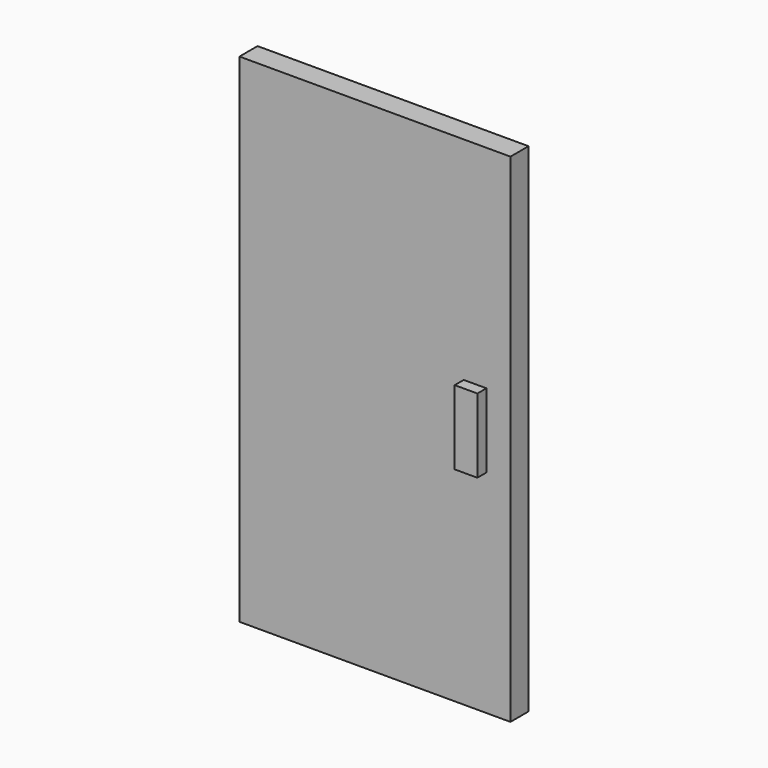
from build123d import *

# Parameters (mm, degrees)
F0_W     = 60.833
F0_H     = 111.7092
F1_DEPTH = 5.08
F2_W     = 5.094256
F2_H     = 16.649162
F3_DEPTH = 7.62


with BuildPart() as f1:
    # F0 (on Front) → F1 (new body)
    with BuildSketch(Plane.XZ):
        with Locations((2.253074, 0)):
            Rectangle(F0_W, F0_H)
    extrude(amount=-F1_DEPTH)

    # F2 (on face) → F3 (join)
    with BuildSketch(Plane(origin=(0, 5.08, 0), x_dir=(-1, 0, 0), z_dir=(0, 1, 0))):
        with Locations((-24.730271, 0)):
            Rectangle(F2_W, F2_H)
    extrude(amount=-F3_DEPTH)


solid = f1.part
